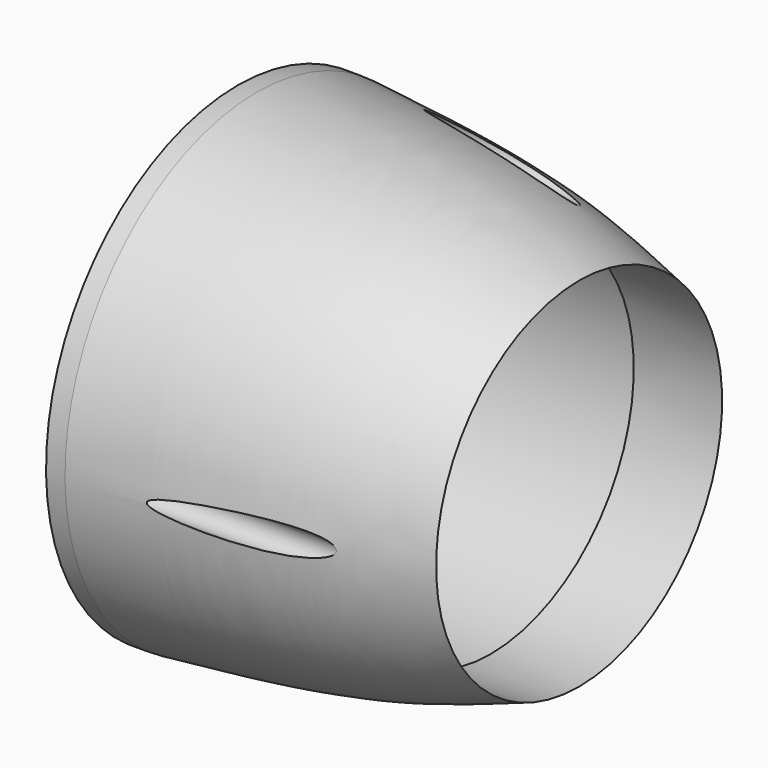
from build123d import *

# Parameters (mm, degrees)
F2_R     = 1.65
F3_DEPTH = 40


with BuildPart() as f1:
    # F0 (on Front) → F1 (revolve)
    with BuildSketch(Plane.XZ):
        with BuildLine():
            Line((-17.3112737751, 27.5), (-17.3112737751, 22.5))
            Line((-17.3112737751, 22.5), (11.6887262249, 22.5))
            Line((11.6887262249, 22.5), (11.6887262249, 20.5))
            Line((11.6887262249, 20.5), (21.8220222741, 20.5))
            add(Edge.make_bspline(
                [(-15.1356169954, 27.5), (-7.3941535839, 26.8102722839), (6.8080929791, 25.544919396), (17.1275634862, 22.0774129295), (21.8220222741, 20.5)],
                knots=[0, 0, 0, 0, 0.5450872422, 1, 1, 1, 1], degree=3))
            Line((-15.1356169954, 27.5), (-17.3112737751, 27.5))
        make_face()
    revolve(axis=Axis((0.6657668818, 0, 0), (1, 0, 0)))

    # F2 (on face) → F3 (cut)
    with BuildSketch(Plane(origin=(-17.3112737751, 0, 0), x_dir=(0, -1, 0), z_dir=(-1, 0, 0))):
        with Locations((-12.2918434958, 21.8062286394)):
            Circle(F2_R)
        with Locations((-12.7388262146, -21.5481630464)):
            Circle(F2_R)
        with Locations((25.0306697104, -0.258065593)):
            Circle(F2_R)
    extrude(amount=-F3_DEPTH, mode=Mode.SUBTRACT)


solid = f1.part
